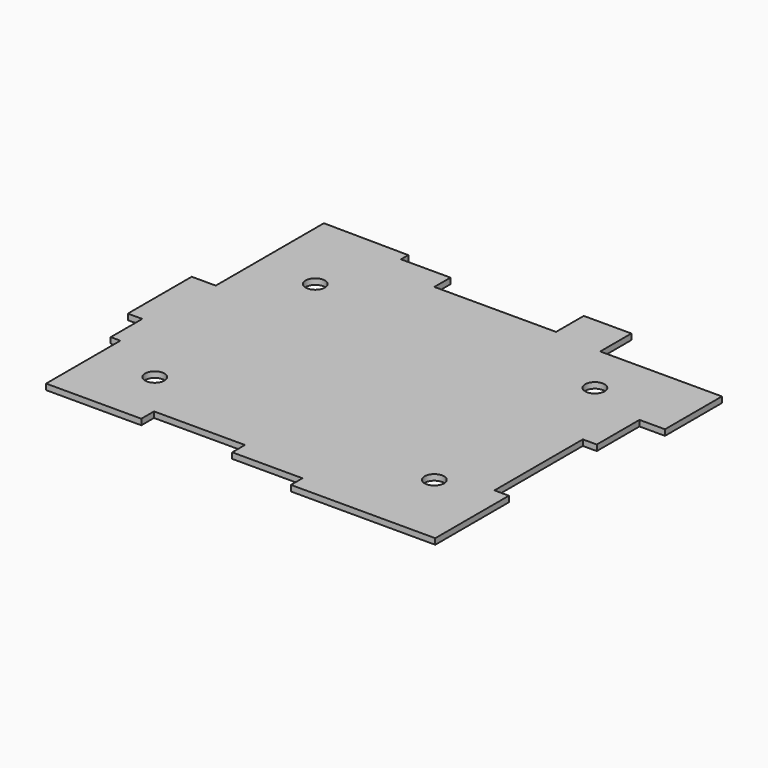
from build123d import *

# Parameters (mm, degrees)
F1_DEPTH = 9
F2_R     = 15
F3_DEPTH = 9


with BuildPart() as f1:
    # F0 (on Top) → F1 (new body)
    with BuildSketch(Plane.XY):
        Polygon((-83.866842, 415.941209), (-215.67443, 417.409271), (-215.67443, 208.180413), (-252.9082, 208.180413), (-252.9082, 84.573381), (-230.567947, 84.573381), (-230.567947, 23.520762), (-215.67443, 23.520762), (-215.67443, -120.181769), (-68.228662, -120.181769), (-68.228662, -95.586702), (72.515041, -95.586702), (72.515041, -120.181769), (181.237683, -120.181769), (181.237683, -142.455935), (404.640406, -142.455935), (404.640406, 0), (382.300109, 0), (382.300109, 171.046928), (403.895706, 171.046928), (403.895706, 253.699571), (443.363547, 253.699571), (443.363547, 363.904893), (254.960567, 363.904893), (254.960567, 424.18623), (181.237698, 424.18623), (181.237698, 370.563626), (-7.16525, 370.563626), (-7.16525, 401.805848), (-83.866842, 401.805848), align=None)
    extrude(amount=F1_DEPTH)

    # F2 (on face) → F3 (cut)
    with BuildSketch(Plane.XY.offset(9)):
        with Locations((-124.251895, 286.570364)):
            Circle(F2_R)
        with Locations((309.384197, 285.571754)):
            Circle(F2_R)
        with Locations((308.298767, -23.780672)):
            Circle(F2_R)
        with Locations((-123.709165, -24.866125)):
            Circle(F2_R)
    extrude(amount=-F3_DEPTH, mode=Mode.SUBTRACT)


solid = f1.part
